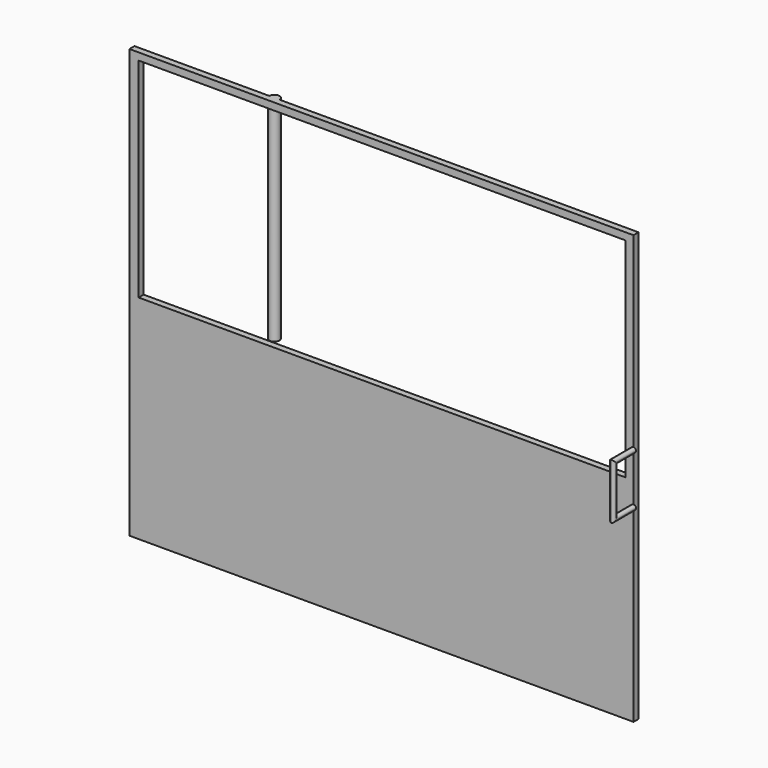
from build123d import *

# Parameters (mm, degrees)
F1_DEPTH = 25
F5_W     = 1931.8042993546
F5_H     = 827.8105258942
F6_DEPTH = 25


with BuildPart() as f1:
    # F0 (on Front) → F1 (new body)
    with BuildSketch(Plane.XZ):
        Polygon((-1000, 0), (0, 0), (1000, 0), (1000, 1700), (0, 1700), (-1000, 1700), align=None)
    extrude(amount=F1_DEPTH)

    # F4: sweep along a path in F2
    with BuildLine(Plane.YZ.offset(1000)) as f4_path:
        Line((-25, 950), (-125, 950))
        Line((-125, 950), (-125, 750))
        Line((-125, 750), (-25, 750))
    # F3 (on face) → F4 (sweep)
    with BuildSketch(Plane.XZ.offset(25)):
        with BuildLine():
            ThreePointArc((1000, 940.1793980598), (1007.0710678119, 943.108330248), (1010, 950.1793980598))
            ThreePointArc((1010, 950.1793980598), (1007.0710678119, 957.2504658717), (1000, 960.1793980598))
            Line((1000, 960.1793980598), (1000, 940.1793980598))
        make_face()
        with BuildLine():
            Line((1000, 940.1793980598), (1000, 960.1793980598))
            ThreePointArc((1000, 960.1793980598), (990, 950.1793980598), (1000, 940.1793980598))
        make_face()
    sweep(path=f4_path.line, transition=Transition.RIGHT)

    # F5 (on face) → F6 (cut)
    with BuildSketch(Plane.XZ.offset(25)):
        with Locations((2.4275183678, 1257.6580047607)):
            Rectangle(F5_W, F5_H)
    extrude(amount=-F6_DEPTH, mode=Mode.SUBTRACT)

    # F9: sweep along a path in F7
    with BuildLine(Plane.XZ) as f9_path:
        Line((0, 847.6967215538), (0, 1689.0659332275))
    # F8 (on face) → F9 (sweep)
    with BuildSketch(Plane.XY.offset(1700)):
        with BuildLine():
            ThreePointArc((-464.7935223579, 0), (-444.7935223579, -20), (-424.7935223579, 0))
            Line((-424.7935223579, 0), (-464.7935223579, 0))
        make_face()
        with BuildLine():
            Line((-464.7935223579, 0), (-424.7935223579, 0))
            ThreePointArc((-424.7935223579, 0), (-444.7935223579, 20), (-464.7935223579, 0))
        make_face()
    sweep(path=f9_path.line)


solid = f1.part
